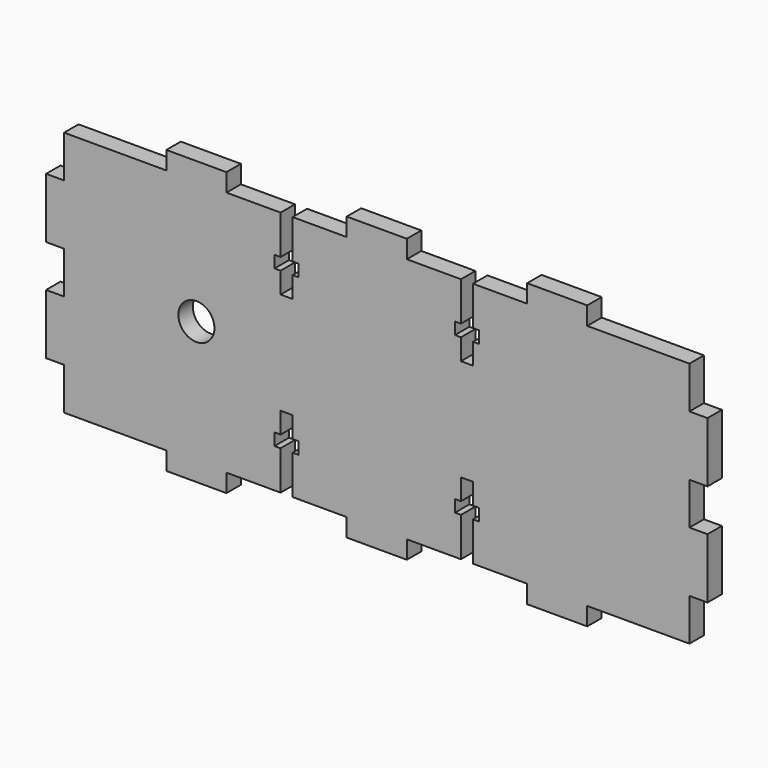
from build123d import *

# Parameters (mm, degrees)
F0_R     = 3
F1_DEPTH = 3


with BuildPart() as f1:
    # F0 (on Front) → F1 (new body)
    with BuildSketch(Plane.XZ):
        Polygon((-47.012073, 8.897897), (-56.012073, 8.897897), (-56.012073, 11.897897), (-66.012073, 11.897897), (-66.012073, 8.897897), (-83.012073, 8.897897), (-83.012073, 1.897897), (-86.012073, 1.897897), (-86.012073, -8.102103), (-83.012073, -8.102103), (-83.012073, -11.602103), (-83.012073, -15.102103), (-86.012073, -15.102103), (-86.012073, -25.102103), (-83.012073, -25.102103), (-83.012073, -32.102103), (-66.012073, -32.102103), (-66.012073, -35.102103), (-56.012073, -35.102103), (-56.012073, -32.102103), (-47.012073, -32.102103), (-47.012073, -25.602103), (-48.012073, -25.602103), (-48.012073, -23.602103), (-47.012073, -23.602103), (-47.012073, -20.102103), (-45.012073, -20.102103), (-45.012073, -23.602103), (-44.012073, -23.602103), (-44.012073, -25.602103), (-45.012073, -25.602103), (-45.012073, -32.102103), (-36.012073, -32.102103), (-36.012073, -35.102103), (-31.012073, -35.102103), (-26.012073, -35.102103), (-26.012073, -32.102103), (-17.012073, -32.102103), (-17.012073, -25.602103), (-18.012073, -25.602103), (-18.012073, -23.602103), (-17.012073, -23.602103), (-17.012073, -20.102103), (-15.012073, -20.102103), (-15.012073, -23.602103), (-14.012073, -23.602103), (-14.012073, -25.602103), (-15.012073, -25.602103), (-15.012073, -32.102103), (-6.012073, -32.102103), (-6.012073, -35.102103), (3.987927, -35.102103), (3.987927, -32.102103), (20.987927, -32.102103), (20.987927, -25.102103), (23.987927, -25.102103), (23.987927, -15.102103), (20.987927, -15.102103), (20.987927, -11.602103), (20.987927, -8.102103), (23.987927, -8.102103), (23.987927, 1.897897), (20.987927, 1.897897), (20.987927, 8.897897), (3.987927, 8.897897), (3.987927, 11.897897), (-6.012073, 11.897897), (-6.012073, 8.897897), (-15.012073, 8.897897), (-15.012073, 2.397897), (-14.012073, 2.397897), (-14.012073, 0.397897), (-15.012073, 0.397897), (-15.012073, -3.102103), (-17.012073, -3.102103), (-17.012073, 0.397897), (-18.012073, 0.397897), (-18.012073, 2.397897), (-17.012073, 2.397897), (-17.012073, 8.897897), (-26.012073, 8.897897), (-26.012073, 11.897897), (-31.012073, 11.897897), (-36.012073, 11.897897), (-36.012073, 8.897897), (-45.012073, 8.897897), (-45.012073, 2.397897), (-44.012073, 2.397897), (-44.012073, 0.397897), (-45.012073, 0.397897), (-45.012073, -3.102103), (-47.012073, -3.102103), (-47.012073, 0.397897), (-48.012073, 0.397897), (-48.012073, 2.397897), (-47.012073, 2.397897), align=None)
        with Locations((-61.012073, -11.602103)):
            Circle(F0_R, mode=Mode.SUBTRACT)
    extrude(amount=F1_DEPTH)


solid = f1.part
